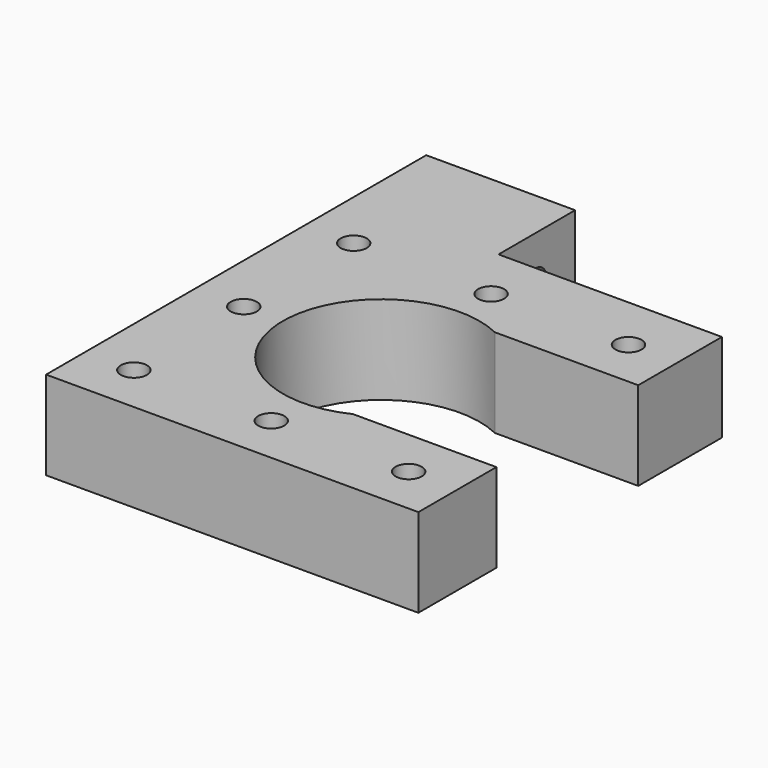
from build123d import *

# Parameters (mm, degrees)
SKETCH054_R          = 1.475
PAD016_DEPTH         = 10
SKETCH055_R          = 2.76
POCKET034_DEPTH      = 3
SKETCH056_R          = 11.1
POCKET035_DEPTH      = 10.001
POCKET035_DEPTH_BACK = 0.001
PAD017_DEPTH         = 10
SKETCH058_R          = 1.5
POCKET036_DEPTH      = 21.001
SKETCH059_W          = 12.9
SKETCH059_H          = 10.2
POCKET037_DEPTH      = 0.2


with BuildPart() as part:
    # Sketch054 → Pad016 (new body)
    with BuildSketch(Plane.XY):
        with BuildLine():
            Line((-21, 21), (21, 21))
            Line((21, 21), (21, 10))
            Line((21, 10), (0, 10))
            ThreePointArc((0, 10), (-10, 0), (0, -10))
            Line((21, -10), (0, -10))
            Line((21, -21), (21, -10))
            Line((21, -21), (-21, -21))
            Line((-21, -21), (-21, 21))
        make_face()
        with Locations((-15.5, 15.5)):
            Circle(SKETCH054_R, mode=Mode.SUBTRACT)
        with Locations((15.5, 15.5)):
            Circle(SKETCH054_R, mode=Mode.SUBTRACT)
        with Locations((-15.5, -15.5)):
            Circle(SKETCH054_R, mode=Mode.SUBTRACT)
        with Locations((15.5, -15.5)):
            Circle(SKETCH054_R, mode=Mode.SUBTRACT)
        with Locations((-15.5, 0)):
            Circle(SKETCH054_R, mode=Mode.SUBTRACT)
        with Locations((0, 15.5)):
            Circle(SKETCH054_R, mode=Mode.SUBTRACT)
        with Locations((0, -15.5)):
            Circle(SKETCH054_R, mode=Mode.SUBTRACT)
    extrude(amount=PAD016_DEPTH)

    # Sketch055 → Pocket034 (cut)
    with BuildSketch(Plane.XY):
        with Locations((-15.5, 15.5)):
            Circle(SKETCH055_R)
        with Locations((15.5, 15.5)):
            Circle(SKETCH055_R)
        with Locations((-15.5, -15.5)):
            Circle(SKETCH055_R)
        with Locations((15.5, -15.5)):
            Circle(SKETCH055_R)
        with Locations((-15.5, 0)):
            Circle(SKETCH055_R)
        with Locations((0, 15.5)):
            Circle(SKETCH055_R)
        with Locations((0, -15.5)):
            Circle(SKETCH055_R)
    extrude(amount=POCKET034_DEPTH, mode=Mode.SUBTRACT)

    # Sketch056 (on Face5 of Pocket034) → Pocket035 (cut, two sides)
    with BuildSketch(Plane.XY.offset(10)) as pocket035_sk:
        Circle(SKETCH056_R)
    extrude(amount=-POCKET035_DEPTH, mode=Mode.SUBTRACT)
    extrude(pocket035_sk.sketch, amount=POCKET035_DEPTH_BACK, mode=Mode.SUBTRACT)

    # Sketch057 → Pad017 (join)
    with BuildSketch(Plane.XY):
        Polygon((-4.2, 21.8), (-4.2, 32.6), (-21, 32.6), (-21, 21), (21, 21), (21, 21.8), align=None)
    extrude(amount=PAD017_DEPTH)

    # Sketch058 → Pocket036 (cut, through all)
    with BuildSketch(Plane.YZ):
        with Locations((27.05, 5)):
            Circle(SKETCH058_R)
    extrude(amount=-POCKET036_DEPTH, mode=Mode.SUBTRACT)

    # Sketch059 → Pocket037 (cut)
    with BuildSketch(Plane.XY):
        with Locations((2.25, 16.9)):
            Rectangle(SKETCH059_W, SKETCH059_H)
    extrude(amount=POCKET037_DEPTH, mode=Mode.SUBTRACT)


with BuildPart() as part_1:
    # Body011 placement: moved
    add(part.part.moved(Location((0, 0, -30))))


solid = part_1.part
